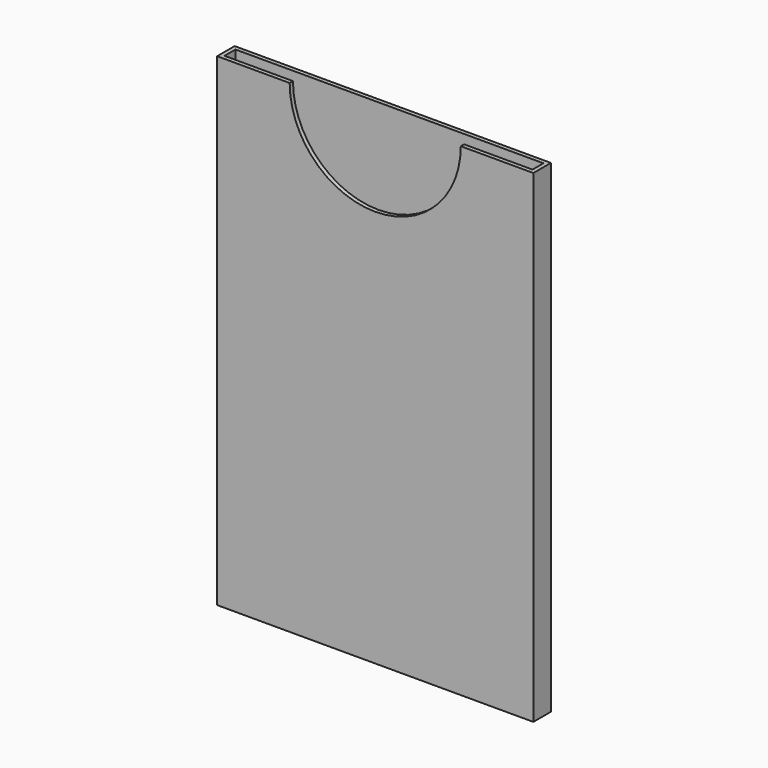
from build123d import *

# Parameters (mm, degrees)
SKETCH_W        = 46.2
SKETCH_H        = 3.2
PAD_DEPTH       = 70.6
SKETCH001_W     = 45
SKETCH001_H     = 2
POCKET_DEPTH    = 70
SKETCH002_R     = 12.5
POCKET001_DEPTH = 0.6


with BuildPart() as part:
    # Sketch → Pad (new body)
    with BuildSketch(Plane.XY):
        with Locations((23.1, 1.6)):
            Rectangle(SKETCH_W, SKETCH_H)
    extrude(amount=PAD_DEPTH)

    # Sketch001 (on Face6 of Pad) → Pocket (cut)
    with BuildSketch(Plane.XY.offset(70.6)):
        with Locations((23.1, 1.6)):
            Rectangle(SKETCH001_W, SKETCH001_H)
    extrude(amount=-POCKET_DEPTH, mode=Mode.SUBTRACT)

    # Sketch002 (on Face6 of Pocket) → Pocket001 (cut)
    with BuildSketch(Plane.XZ):
        with Locations((23.1, 70.6)):
            Circle(SKETCH002_R)
    extrude(amount=-POCKET001_DEPTH, mode=Mode.SUBTRACT)


solid = part.part
